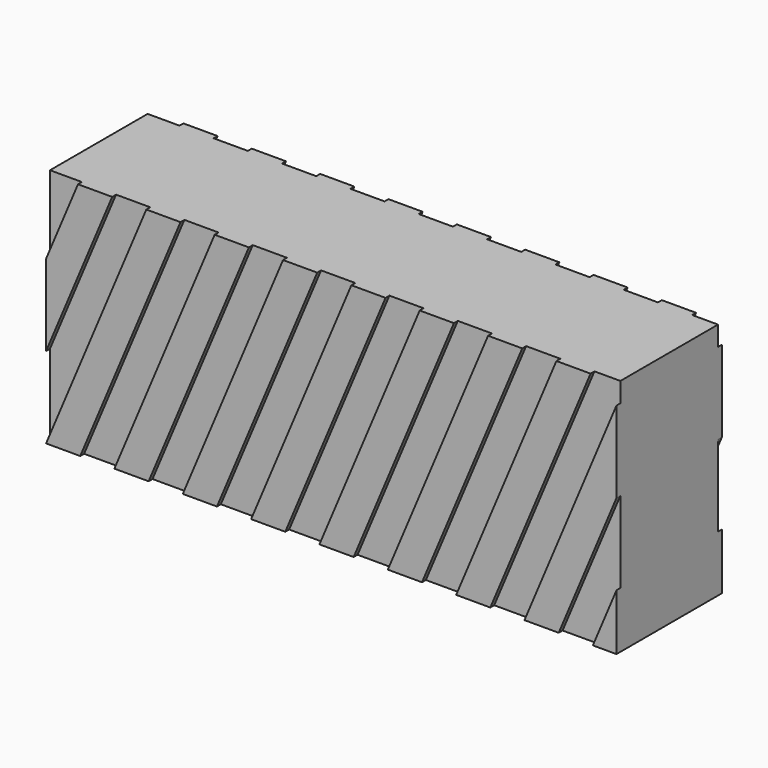
from build123d import *

# Parameters (mm, degrees)
F1_DEPTH      = 25
F2_DEPTH      = 1
F2_DEPTH_BACK = 26


with BuildPart() as f1:
    # F0 (on Front) → F1 (new body)
    with BuildSketch(Plane.XZ):
        Polygon((148.768574, 98.237524), (129.927574, 53.408206), (136.927574, 53.408206), (148.768574, 81.58208), align=None)
        Polygon((136.463021, 102.269206), (129.463021, 102.269206), (108.927574, 53.408206), (115.927574, 53.408206), align=None)
        Polygon((148.768574, 102.269206), (143.463021, 102.269206), (122.927574, 53.408206), (129.927574, 53.408206), (148.768574, 98.237524), align=None)
        Polygon((115.463021, 102.269206), (108.463021, 102.269206), (87.927574, 53.408206), (94.927574, 53.408206), align=None)
        Polygon((108.463021, 102.269206), (101.463021, 102.269206), (80.927574, 53.408206), (87.927574, 53.408206), align=None)
        Polygon((101.463021, 102.269206), (94.463021, 102.269206), (73.927574, 53.408206), (80.927574, 53.408206), align=None)
        Polygon((94.463021, 102.269206), (87.463021, 102.269206), (66.927574, 53.408206), (73.927574, 53.408206), align=None)
        Polygon((87.463021, 102.269206), (80.463021, 102.269206), (59.927574, 53.408206), (66.927574, 53.408206), align=None)
        Polygon((80.463021, 102.269206), (73.463021, 102.269206), (52.927574, 53.408206), (59.927574, 53.408206), align=None)
        Polygon((73.463021, 102.269206), (66.463021, 102.269206), (45.927574, 53.408206), (52.927574, 53.408206), align=None)
        Polygon((66.463021, 102.269206), (59.463021, 102.269206), (38.927574, 53.408206), (45.927574, 53.408206), align=None)
        Polygon((59.463021, 102.269206), (52.463021, 102.269206), (31.927574, 53.408206), (38.927574, 53.408206), align=None)
        Polygon((52.463021, 102.269206), (45.463021, 102.269206), (31.927574, 70.06365), (31.927574, 53.408206), align=None)
        Polygon((45.463021, 102.269206), (38.463021, 102.269206), (31.927574, 86.719095), (31.927574, 70.06365), align=None)
        Polygon((148.768574, 64.926635), (143.927574, 53.408206), (148.768574, 53.408206), align=None)
        Polygon((38.463021, 102.269206), (31.927574, 102.269206), (31.927574, 86.719095), align=None)
        Polygon((143.463021, 102.269206), (136.463021, 102.269206), (115.927574, 53.408206), (122.927574, 53.408206), align=None)
        Polygon((129.463021, 102.269206), (122.463021, 102.269206), (101.927574, 53.408206), (108.927574, 53.408206), align=None)
        Polygon((122.463021, 102.269206), (115.463021, 102.269206), (94.927574, 53.408206), (101.927574, 53.408206), align=None)
        Polygon((148.768574, 81.58208), (136.927574, 53.408206), (143.927574, 53.408206), (148.768574, 64.926635), align=None)
    extrude(amount=-F1_DEPTH)

    # F0 (on Front) → F2 (join, two sides)
    with BuildSketch(Plane.XZ) as f2_sk:
        Polygon((45.463021, 102.269206), (38.463021, 102.269206), (31.927574, 86.719095), (31.927574, 70.06365), align=None)
        Polygon((59.463021, 102.269206), (52.463021, 102.269206), (31.927574, 53.408206), (38.927574, 53.408206), align=None)
        Polygon((73.463021, 102.269206), (66.463021, 102.269206), (45.927574, 53.408206), (52.927574, 53.408206), align=None)
        Polygon((87.463021, 102.269206), (80.463021, 102.269206), (59.927574, 53.408206), (66.927574, 53.408206), align=None)
        Polygon((101.463021, 102.269206), (94.463021, 102.269206), (73.927574, 53.408206), (80.927574, 53.408206), align=None)
        Polygon((115.463021, 102.269206), (108.463021, 102.269206), (87.927574, 53.408206), (94.927574, 53.408206), align=None)
        Polygon((129.463021, 102.269206), (122.463021, 102.269206), (101.927574, 53.408206), (108.927574, 53.408206), align=None)
        Polygon((143.463021, 102.269206), (136.463021, 102.269206), (115.927574, 53.408206), (122.927574, 53.408206), align=None)
        Polygon((148.768574, 98.237524), (129.927574, 53.408206), (136.927574, 53.408206), (148.768574, 81.58208), align=None)
        Polygon((148.768574, 64.926635), (143.927574, 53.408206), (148.768574, 53.408206), align=None)
    extrude(amount=F2_DEPTH)
    extrude(f2_sk.sketch, amount=-F2_DEPTH_BACK)


solid = f1.part
